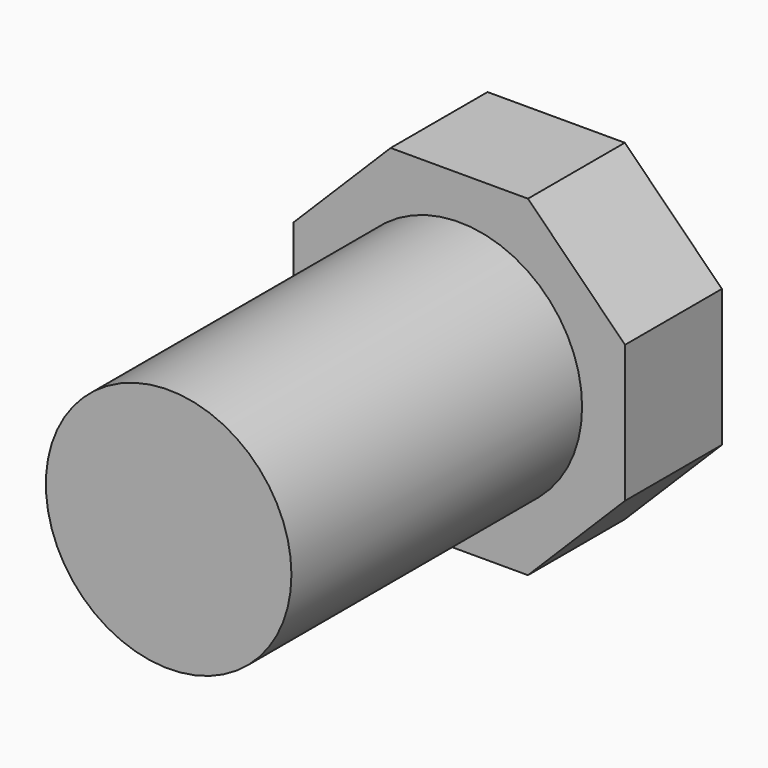
from build123d import *

# Parameters (mm, degrees)
F1_DEPTH = 25.4
F2_R     = 51.507819
F3_DEPTH = 203.2
F5_DEPTH = 25.4


with BuildPart() as f1:
    # F0 (on Front) → F1 (new body)
    with BuildSketch(Plane.XZ):
        Polygon((-28.796132, -69.520012), (28.796132, -69.520012), (69.520012, -28.796132), (69.520012, 28.796132), (28.796132, 69.520012), (-28.796132, 69.520012), (-69.520012, 28.796132), (-69.520012, -28.796132), align=None)
    extrude(amount=F1_DEPTH)

    # F2 (on Front) → F3 (join)
    with BuildSketch(Plane.XZ):
        Circle(F2_R)
    extrude(amount=F3_DEPTH)

    # F4 (on face) → F5 (join)
    with BuildSketch(Plane.XZ.offset(25.4)):
        Polygon((-28.796132, -69.520012), (28.796132, -69.520012), (69.520012, -28.796132), (69.520012, 28.796132), (28.796132, 69.520012), (-28.796132, 69.520012), (-69.520012, 28.796132), (-69.520012, -28.796132), align=None)
    extrude(amount=F5_DEPTH)


solid = f1.part
